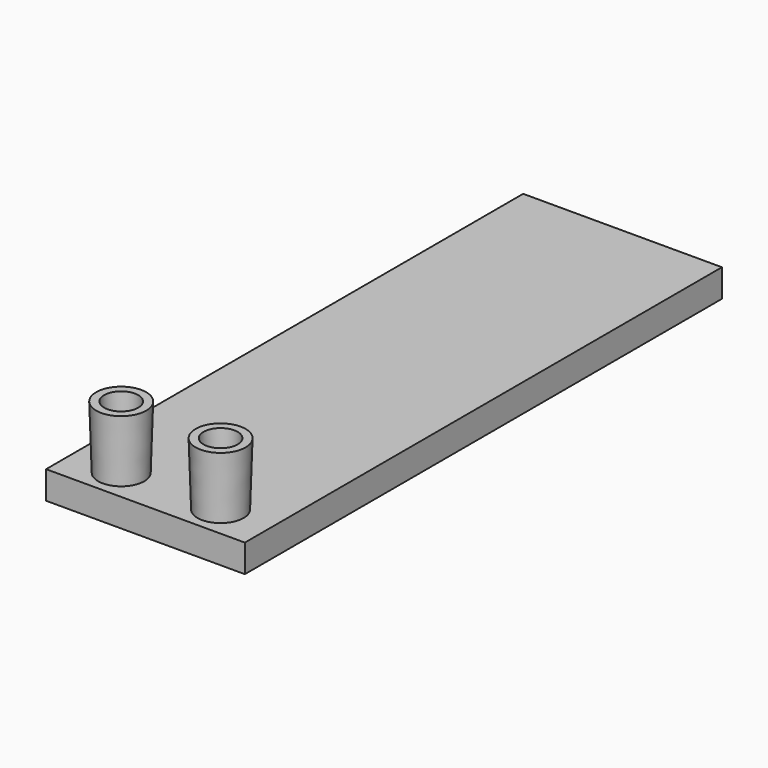
from build123d import *

# Parameters (mm, degrees)
F0_W     = 25
F0_H     = 75
F3_DEPTH = 3.5
F4_DEPTH = 1
F2_R     = 1.9
F5_DEPTH = 3.5


with BuildPart() as f3:
    # F0 (on Top) → F3 (new body)
    with BuildSketch(Plane.XY):
        with Locations((-31.788486, -12.391831)):
            Rectangle(F0_W, F0_H)
    extrude(amount=F3_DEPTH)

    # F1 (on face) → F4 (cut)
    with BuildSketch(Plane.XY):
        with BuildLine():
            ThreePointArc((-27.438486, -45.891831), (-25.538486, -47.791831), (-23.638486, -45.891831))
            ThreePointArc((-23.638486, -45.891831), (-25.538486, -43.991831), (-27.438486, -45.891831))
        make_face()
        with BuildLine():
            ThreePointArc((-27.438486, -45.891831), (-25.538486, -43.991831), (-23.638486, -45.891831))
            Line((-23.638486, -45.891831), (-23.638486, 15.108169))
            ThreePointArc((-23.638486, 15.108169), (-31.788486, 23.258169), (-39.938486, 15.108169))
            Line((-39.938486, 15.108169), (-39.938486, -45.891831))
            ThreePointArc((-39.938486, -45.891831), (-38.038486, -43.991831), (-36.138486, -45.891831))
            Line((-36.138486, -45.891831), (-36.138486, 15.108169))
            ThreePointArc((-36.138486, 15.108169), (-31.788486, 19.458169), (-27.438486, 15.108169))
            Line((-27.438486, 15.108169), (-27.438486, -45.891831))
        make_face()
        with BuildLine():
            ThreePointArc((-36.138486, -45.891831), (-38.038486, -43.991831), (-39.938486, -45.891831))
            ThreePointArc((-39.938486, -45.891831), (-38.038486, -47.791831), (-36.138486, -45.891831))
        make_face()
    extrude(amount=F4_DEPTH, mode=Mode.SUBTRACT)

    # F2 (on Top) + F1 (on face) → F5 (cut)
    with BuildSketch(Plane.XY):
        with Locations((-25.538486, -45.891831)):
            Circle(F2_R)
    with BuildSketch(Plane.XY):
        with BuildLine():
            ThreePointArc((-36.138486, -45.891831), (-38.038486, -43.991831), (-39.938486, -45.891831))
            ThreePointArc((-39.938486, -45.891831), (-38.038486, -47.791831), (-36.138486, -45.891831))
        make_face()
    extrude(amount=F5_DEPTH, mode=Mode.SUBTRACT)


with BuildPart() as f8:
    # F7 (on offset) → F8 (revolve)
    with BuildSketch(Plane.XZ.offset(45.89183)):
        Polygon((-35.893486, 11.409332), (-36.138486, 3.509332), (-35.138486, 3.509332), (-34.893486, 11.409332), align=None)
    revolve(axis=Axis((-38.038486, -45.89183, 7.459332), (0, 0, 1)))


with BuildPart() as f10:
    # F9 (on offset) → F10 (revolve)
    with BuildSketch(Plane.XZ.offset(45.89183)):
        Polygon((-23.393483, 11.406376), (-23.638483, 3.506376), (-22.638483, 3.506376), (-22.393483, 11.406376), align=None)
    revolve(axis=Axis((-25.538483, -45.89183, 8.424162), (0, 0, 1)))


solid = Compound([f3.part, f8.part, f10.part])
